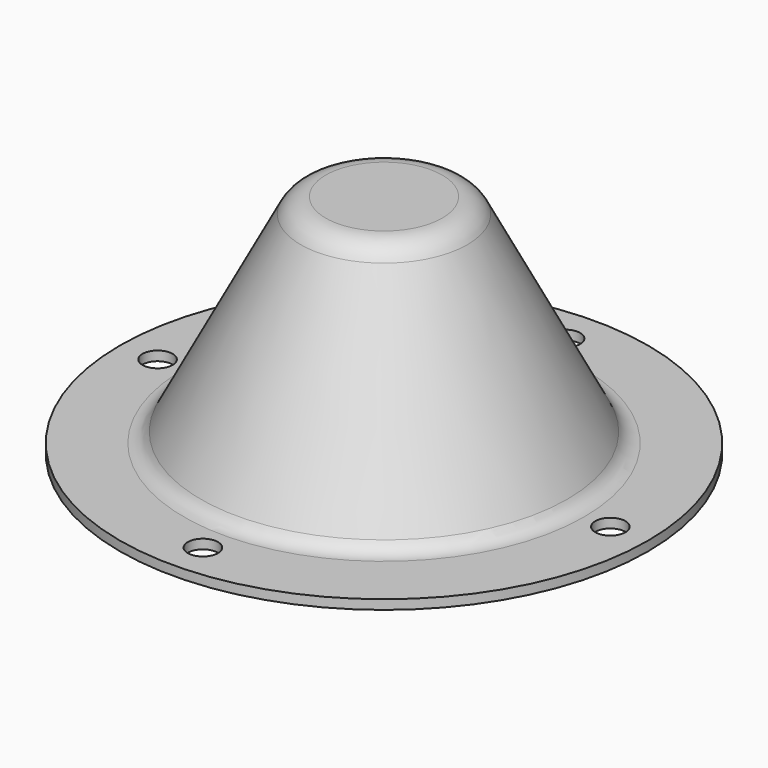
from build123d import *

# Parameters (mm, degrees)
F2_R           = 5.08
F3_DEPTH       = 25.4
F4_R           = 19.62609262
F5_DEPTH       = 21.59
F7_D           = 0.254
F7_DEPTH       = 19.05
F7_CSINK_D     = 19.05
F7_CSINK_ANGLE = 82
F7_TIP         = 0.0763092986


with BuildPart() as f1:
    # F0 (on Front) → F1 (revolve)
    with BuildSketch(Plane.XZ):
        with BuildLine():
            Line((25.2559063932, 69.6122941425), (61.5753642067, 0))
            Line((61.5753642067, 0), (88.9, 0))
            Line((88.9, 0), (88.9, 3.175))
            Line((88.9, 3.175), (67.3492715866, 3.175))
            ThreePointArc((67.3492715866, 3.175), (64.0575636565, 4.0947920019), (61.7194578135, 6.5877058575))
            Line((61.7194578135, 6.5877058575), (28.0708132798, 71.0809412138))
            ThreePointArc((28.0708132798, 71.0809412138), (24.5636545153, 74.8203119971), (19.62609262, 76.2))
            Line((19.62609262, 76.2), (0, 76.2))
            Line((0, 76.2), (0, 73.025))
            Line((0, 73.025), (19.62609262, 73.025))
            ThreePointArc((19.62609262, 73.025), (22.9178005502, 72.1052079981), (25.2559063932, 69.6122941425))
        make_face()
    revolve(axis=Axis((0, 0, 35.2039765567), (0, 0, -1)))

    # F2 (on face) → F3 (cut)
    with BuildSketch(Plane(origin=(0, 0, 0), x_dir=(1, 0, 0), z_dir=(0, 0, -1))):
        with Locations((0, 76.2)):
            Circle(F2_R)
        with Locations((-76.2, 0)):
            Circle(F2_R)
        with Locations((0, -76.2)):
            Circle(F2_R)
        with Locations((76.2, 0)):
            Circle(F2_R)
    extrude(amount=-F3_DEPTH, mode=Mode.SUBTRACT)

    # F4 (on face) → F5 (join)
    with BuildSketch(Plane(origin=(0, 0, 73.025), x_dir=(1, 0, 0), z_dir=(0, 0, -1))):
        Circle(F4_R)
    extrude(amount=F5_DEPTH)

    # F7
    with Locations(Plane(origin=(0, 0, 51.435), x_dir=(1, 0, 0), z_dir=(0, 0, -1))):
        with Locations((0, 0)):
            CounterSinkHole(F7_D / 2, F7_CSINK_D / 2, depth=F7_DEPTH, counter_sink_angle=F7_CSINK_ANGLE)
            with Locations((0, 0, -(F7_DEPTH + F7_TIP / 2))):  # 118° drill point
                Cone(0, F7_D / 2, F7_TIP, mode=Mode.SUBTRACT)


solid = f1.part
